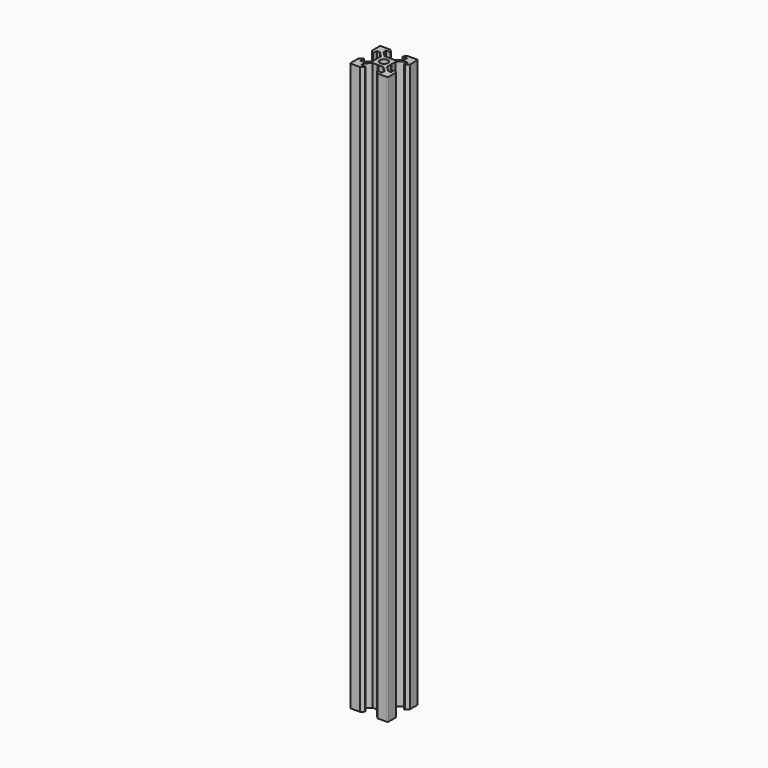
from build123d import *

# Parameters (mm, degrees)
F0_R     = 2.1
F2_DEPTH = 300


with BuildPart() as f2:
    # F0 (on Top) → F2 (new body)
    with BuildSketch(Plane.XY):
        with BuildLine():
            Line((-4.58, 10), (-9.5, 10))
            ThreePointArc((-9.5, 10), (-9.853553, 9.853553), (-10, 9.5))
            Line((-10, 9.5), (-10, 4.58))
            Line((-10, 4.58), (-8.545, 3.125))
            Line((-8.545, 3.125), (-8.2, 3.125))
            Line((-8.2, 3.125), (-8.2, 5.5))
            Line((-8.2, 5.5), (-6.56066, 5.5))
            Line((-6.56066, 5.5), (-3.9, 2.83934))
            Line((-3.9, 2.83934), (-3.9, 0.21))
            Line((-3.9, 0.21), (-3.69, 0))
            Line((-3.69, 0), (-3.9, -0.21))
            Line((-3.9, -0.21), (-3.9, -2.83934))
            Line((-3.9, -2.83934), (-6.56066, -5.5))
            Line((-6.56066, -5.5), (-8.2, -5.5))
            Line((-8.2, -5.5), (-8.2, -3.125))
            Line((-8.2, -3.125), (-8.545, -3.125))
            Line((-8.545, -3.125), (-10, -4.58))
            Line((-10, -4.58), (-10, -9.5))
            ThreePointArc((-10, -9.5), (-9.853553, -9.853553), (-9.5, -10))
            Line((-9.5, -10), (-4.58, -10))
            Line((-4.58, -10), (-3.125, -8.545))
            Line((-3.125, -8.545), (-3.125, -8.2))
            Line((-3.125, -8.2), (-5.5, -8.2))
            Line((-5.5, -8.2), (-5.5, -6.56066))
            Line((-5.5, -6.56066), (-2.83934, -3.9))
            Line((-2.83934, -3.9), (-0.21, -3.9))
            Line((-0.21, -3.9), (0, -3.69))
            Line((0, -3.69), (0.21, -3.9))
            Line((0.21, -3.9), (2.83934, -3.9))
            Line((2.83934, -3.9), (5.5, -6.56066))
            Line((5.5, -6.56066), (5.5, -8.2))
            Line((5.5, -8.2), (3.125, -8.2))
            Line((3.125, -8.2), (3.125, -8.545))
            Line((3.125, -8.545), (4.58, -10))
            Line((4.58, -10), (9.5, -10))
            ThreePointArc((9.5, -10), (9.853553, -9.853553), (10, -9.5))
            Line((10, -9.5), (10, -4.58))
            Line((10, -4.58), (8.545, -3.125))
            Line((8.545, -3.125), (8.2, -3.125))
            Line((8.2, -3.125), (8.2, -5.5))
            Line((8.2, -5.5), (6.56066, -5.5))
            Line((6.56066, -5.5), (3.9, -2.83934))
            Line((3.9, -2.83934), (3.9, -0.21))
            Line((3.9, -0.21), (3.69, 0))
            Line((3.69, 0), (3.9, 0.21))
            Line((3.9, 0.21), (3.9, 2.83934))
            Line((3.9, 2.83934), (6.56066, 5.5))
            Line((6.56066, 5.5), (8.2, 5.5))
            Line((8.2, 5.5), (8.2, 3.125))
            Line((8.2, 3.125), (8.545, 3.125))
            Line((8.545, 3.125), (10, 4.58))
            Line((10, 4.58), (10, 9.5))
            ThreePointArc((10, 9.5), (9.853553, 9.853553), (9.5, 10))
            Line((9.5, 10), (4.58, 10))
            Line((4.58, 10), (3.125, 8.545))
            Line((3.125, 8.545), (3.125, 8.2))
            Line((3.125, 8.2), (5.5, 8.2))
            Line((5.5, 8.2), (5.5, 6.56066))
            Line((5.5, 6.56066), (2.83934, 3.9))
            Line((2.83934, 3.9), (0.21, 3.9))
            Line((0.21, 3.9), (0, 3.69))
            Line((0, 3.69), (-0.21, 3.9))
            Line((-0.21, 3.9), (-2.83934, 3.9))
            Line((-2.83934, 3.9), (-5.5, 6.56066))
            Line((-5.5, 6.56066), (-5.5, 8.2))
            Line((-5.5, 8.2), (-3.125, 8.2))
            Line((-3.125, 8.2), (-3.125, 8.545))
            Line((-3.125, 8.545), (-4.58, 10))
        make_face()
        Circle(F0_R, mode=Mode.SUBTRACT)
    extrude(amount=F2_DEPTH)


solid = f2.part
